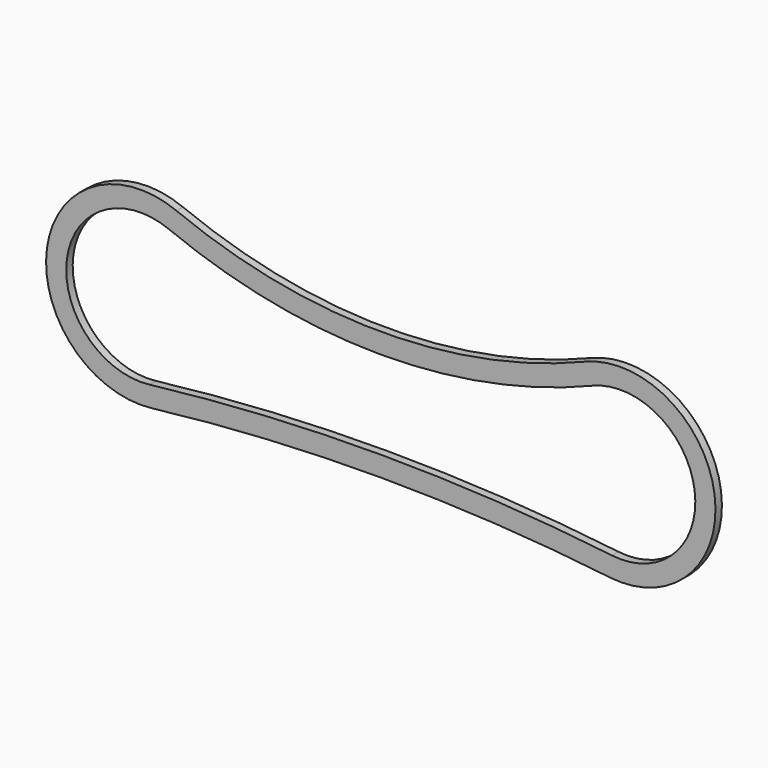
from build123d import *

# Parameters (mm, degrees)
F1_DEPTH = 20


with BuildPart() as f1:
    # F0 (on Front) → F1 (new body)
    with BuildSketch(Plane.XZ):
        with BuildLine():
            ThreePointArc((505.565515, 230.253666), (-0.863192, 131.118124), (-507.291899, 230.253666))
            ThreePointArc((-507.291899, 230.253666), (-828.636372, 44.230047), (-568.376811, -220.594457))
            ThreePointArc((-568.376811, -220.594457), (-0.863192, -187.276748), (566.650427, -220.594457))
            ThreePointArc((566.650427, -220.594457), (826.909988, 44.230047), (505.565515, 230.253666))
        make_face()
        with BuildLine():
            ThreePointArc((-574.227467, -170.937938), (-779.089079, 37.516939), (-526.144878, 183.944215))
            ThreePointArc((-526.144878, 183.944215), (-0.863192, 81.118124), (524.418494, 183.944215))
            ThreePointArc((524.418494, 183.944215), (777.362695, 37.516939), (572.501083, -170.937938))
            ThreePointArc((572.501083, -170.937938), (-0.863192, -137.276748), (-574.227467, -170.937938))
        make_face(mode=Mode.SUBTRACT)
    extrude(amount=F1_DEPTH)


solid = f1.part
